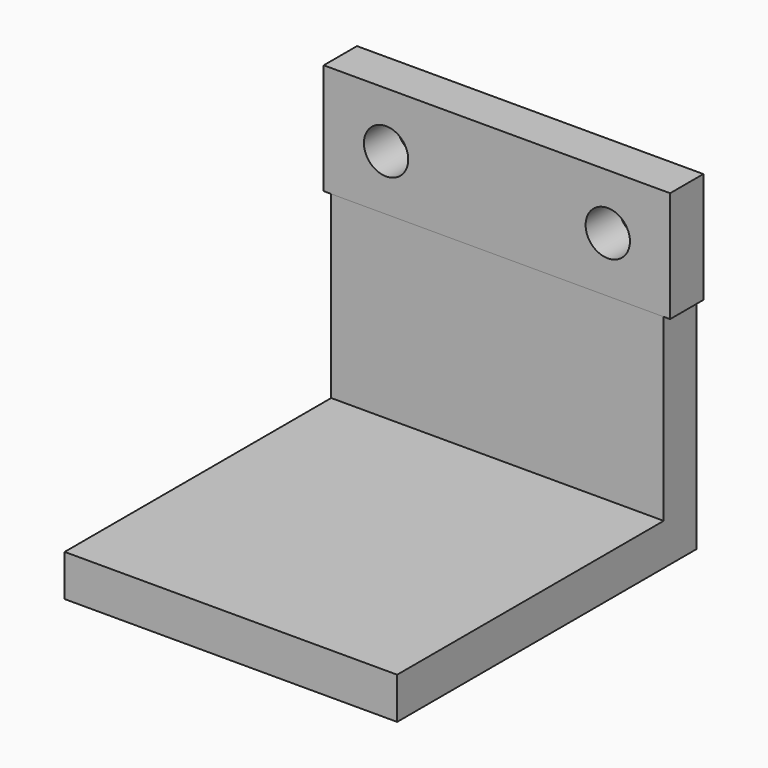
from build123d import *

# Parameters (mm, degrees)
F0_W          = 25
F0_H          = 8
F0_R          = 1.6
F1_DEPTH      = 3
F2_W          = 2.950772
F2_H          = 3
F2_W_2        = 24.049228
F2_H_2        = 13.027318
F3_DEPTH      = 12
F3_DEPTH_BACK = 12


with BuildPart() as f1:
    # F0 (on Front) → F1 (new body)
    with BuildSketch(Plane.XZ):
        Rectangle(F0_W, F0_H)
        with Locations((-8, 0)):
            Circle(F0_R, mode=Mode.SUBTRACT)
        with Locations((8, 0)):
            Circle(F0_R, mode=Mode.SUBTRACT)
    extrude(amount=F1_DEPTH)

    # F2 (on Right) → F3 (join, two sides)
    with BuildSketch(Plane.YZ) as f3_sk:
        with Locations((-1.475386, -18.5)):
            Rectangle(F2_W, F2_H)
        with Locations((-14.975386, -18.5)):
            Rectangle(F2_W_2, F2_H)
        with Locations((-1.475386, -10.486341)):
            Rectangle(F2_W, F2_H_2)
    extrude(amount=F3_DEPTH)
    extrude(f3_sk.sketch, amount=-F3_DEPTH_BACK)


solid = f1.part
